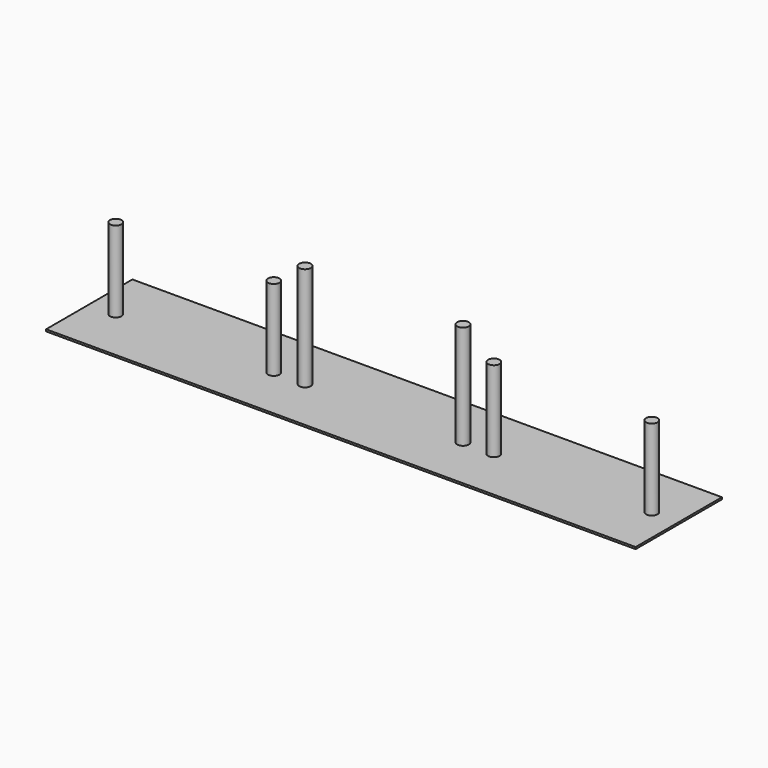
from build123d import *

# Parameters (mm, degrees)
F0_W     = 971.55
F0_H     = 177.8
F1_DEPTH = 3.175
F2_R     = 9.525
F3_DEPTH = 133.35
F4_DEPTH = 38.1


with BuildPart() as f1:
    # F0 (on Top) → F1 (new body)
    with BuildSketch(Plane.XY):
        with Locations((485.775, -88.9)):
            Rectangle(F0_W, F0_H)
    extrude(amount=F1_DEPTH)

    # F2 (on face) → F3 (join)
    with BuildSketch(Plane.XY.offset(3.175)):
        with Locations((43.688, -88.9)):
            Circle(F2_R)
        with BuildLine():
            ThreePointArc((313.563, -88.9), (304.038, -79.375), (294.513, -88.9))
            ThreePointArc((294.513, -88.9), (304.038, -98.425), (313.563, -88.9))
        make_face()
        with Locations((355.6, -88.9)):
            Circle(F2_R)
        with BuildLine():
            ThreePointArc((625.475, -88.9), (615.95, -79.375), (606.425, -88.9))
            ThreePointArc((606.425, -88.9), (615.95, -98.425), (625.475, -88.9))
        make_face()
        with Locations((666.75, -88.9)):
            Circle(F2_R)
        with BuildLine():
            ThreePointArc((917.575, -88.9), (927.1, -98.425), (936.625, -88.9))
            ThreePointArc((936.625, -88.9), (927.1, -79.375), (917.575, -88.9))
        make_face()
    extrude(amount=F3_DEPTH)

    # F4 (add): faces of the model
    f4_faces = [f1.faces().sort_by_distance(p)[0] for p in [
        (355.6, -88.9, 136.525),
        (615.95, -88.9, 136.525),
    ]]
    extrude(f4_faces, amount=F4_DEPTH)


solid = f1.part
